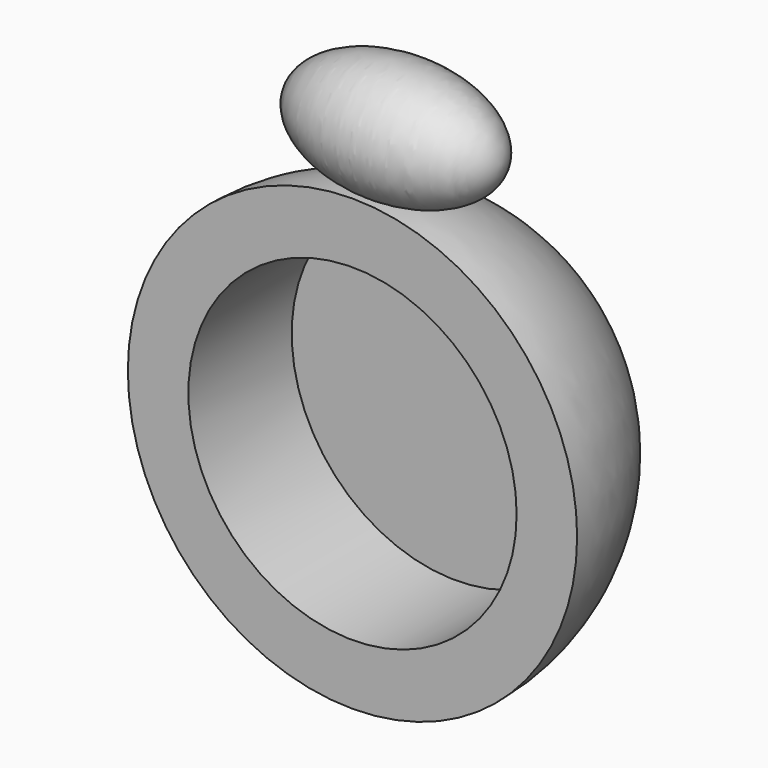
from build123d import *

# Parameters (mm, degrees)
F2_R     = 32.269591
F3_DEPTH = 25.4


with BuildPart() as f1:
    # F0 (on Top) → F1 (revolve)
    with BuildSketch(Plane.XY):
        with BuildLine():
            Line((0, 0), (0, 44.164269))
            ThreePointArc((0, 44.164269), (-31.228854, 31.228854), (-44.164269, 0))
            Line((-44.164269, 0), (0, 0))
        make_face()
    revolve(axis=Axis((0, 22.082135, 0), (0, 1, 0)))

    # F2 (on face) → F3 (cut)
    with BuildSketch(Plane.XZ):
        Circle(F2_R)
    extrude(amount=-F3_DEPTH, mode=Mode.SUBTRACT)


with BuildPart() as f5:
    # F4 (on Front) → F5 (revolve)
    with BuildSketch(Plane.XZ):
        with BuildLine():
            add(Edge.make_bspline(
                [(29.235666, 59.07847), (29.235666, 70.700761), (8.525984, 70.700761), (-12.183697, 70.700761), (-12.183697, 59.07847)],
                knots=[3.141593, 3.141593, 3.141593, 4.712389, 4.712389, 6.283185, 6.283185, 6.283185], degree=2, weights=[1, 0.707107, 1, 0.707107, 1]))
            Line((-12.183697, 59.07847), (29.235666, 59.07847))
        make_face()
    revolve(axis=Axis((8.525984, 0, 59.07847), (1, 0, 0)))


solid = Compound([f1.part, f5.part])
